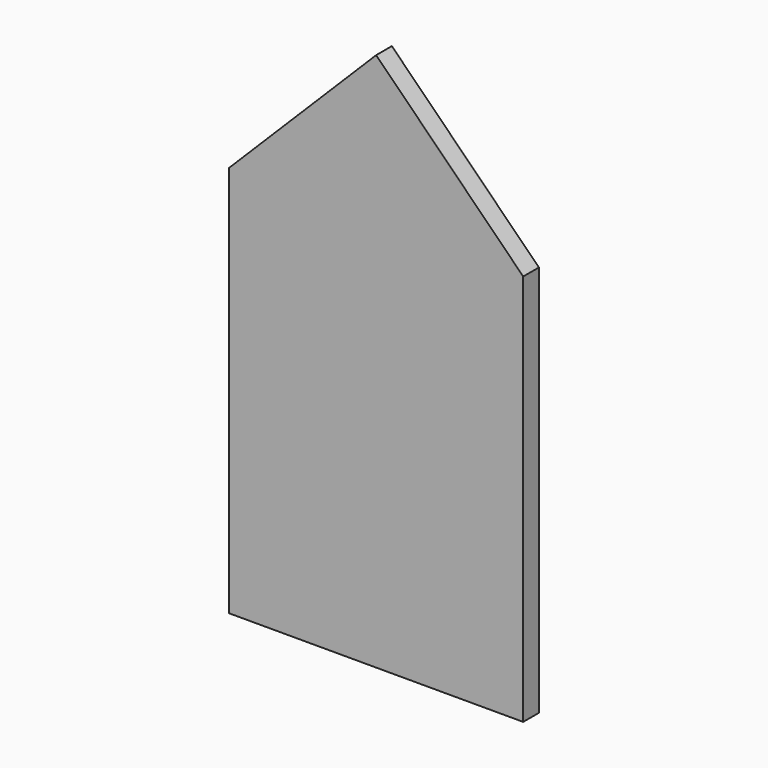
from build123d import *

# Parameters (mm, degrees)
F1_DEPTH = 10


with BuildPart() as f1:
    # F0 (on Front) → F1 (new body)
    with BuildSketch(Plane.XZ):
        Polygon((75, -100), (75, 100), (0, 100), (-75, 100), (-75, -100), align=None)
        Polygon((0, 100), (75, 100), (0, 175), align=None)
        Polygon((-75, 100), (0, 100), (0, 175), align=None)
    extrude(amount=F1_DEPTH)


solid = f1.part
